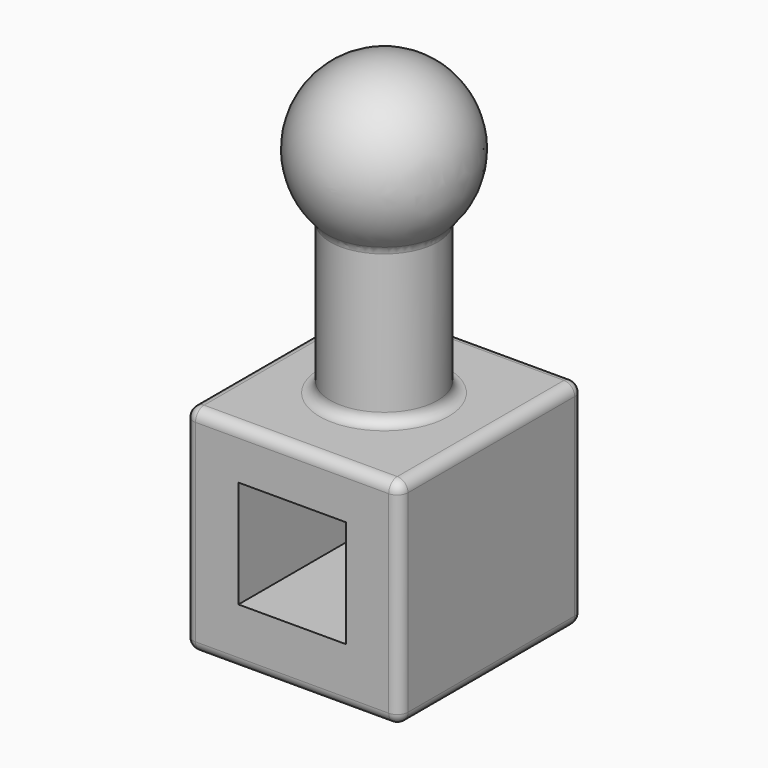
from build123d import *

# Parameters (mm, degrees)
F0_W     = 101.6
F0_H     = 108.7252423167
F1_DEPTH = 101.6
F2_R     = 25.4
F3_DEPTH = 101.6
F8_W     = 50.8
F8_H     = 50.8
F9_DEPTH = 127
F10_R    = 5.08


with BuildPart() as f1:
    # F0 (on Top) → F1 (new body)
    with BuildSketch(Plane.XY):
        Rectangle(F0_W, F0_H)
    extrude(amount=F1_DEPTH)

    # F2 (on face) → F3 (join)
    with BuildSketch(Plane.XY.offset(101.6)):
        Circle(F2_R)
    extrude(amount=F3_DEPTH)

    # F5 (on face) → F6 (revolve)
    with BuildSketch(Plane.XY.offset(203.2)):
        with BuildLine():
            Line((0, -25.4), (0, -38.1))
            ThreePointArc((0, -38.1), (38.1, 0), (0, 38.1))
            Line((0, 38.1), (0, 25.4))
            ThreePointArc((0, 25.4), (17.9605122421, 17.9605122421), (25.4, 0))
            ThreePointArc((25.4, 0), (17.9605122421, -17.9605122421), (0, -25.4))
        make_face()
        with BuildLine():
            Line((0, 25.4), (0, -25.4))
            ThreePointArc((0, -25.4), (17.9605122421, -17.9605122421), (25.4, 0))
            ThreePointArc((25.4, 0), (17.9605122421, 17.9605122421), (0, 25.4))
        make_face()
    revolve(axis=Axis((0, 0, 203.2), (0, -1, 0)))

    # F8 (on face) → F9 (cut)
    with BuildSketch(Plane.XZ.offset(54.3626211584)):
        with Locations((0, 52.638284862)):
            Rectangle(F8_W, F8_H)
    extrude(amount=-F9_DEPTH, mode=Mode.SUBTRACT)

    # F10
    f10_edges = [f1.edges().sort_by_distance(p)[0] for p in [
        (0, -54.362621, 101.6),
        (50.8, 0, 101.6),
        (50.8, -54.362621, 50.8),
        (-50.8, 0, 101.6),
        (0, 54.362621, 101.6),
        (-50.8, -54.362621, 50.8),
        (0, -54.362621, 0),
        (50.8, 0, 0),
        (50.8, 54.362621, 50.8),
        (-50.8, 54.362621, 50.8),
        (0, 54.362621, 0),
        (-50.8, 0, 0),
        (-25.4, 0, 101.6),
        (-25.4, 0, 174.801937),
    ]]
    fillet(f10_edges, radius=F10_R)


solid = f1.part
